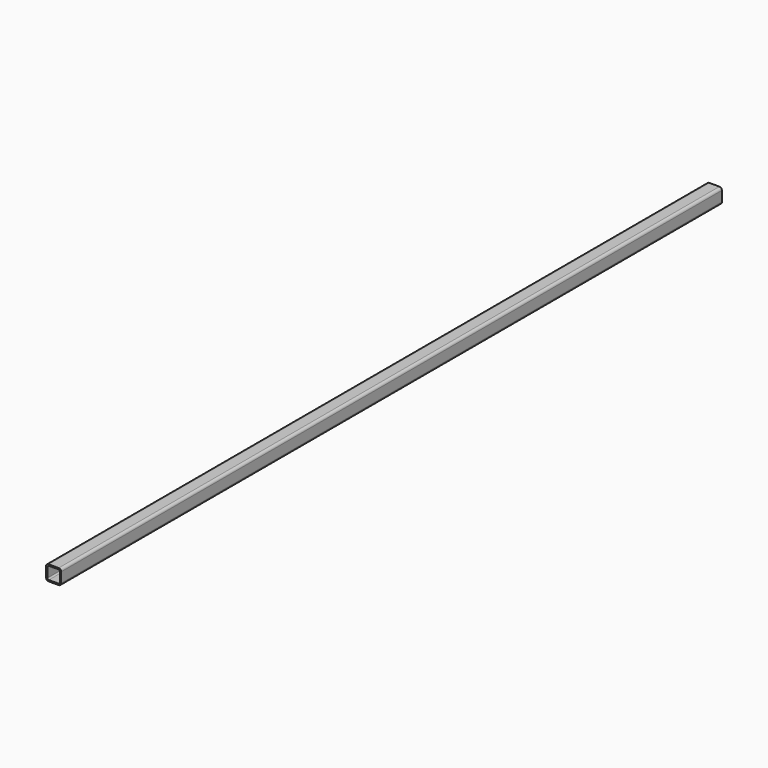
from build123d import *

# Parameters (mm, degrees)
F1_DEPTH = 1041.4


with BuildPart() as f1:
    # F0 (on Front) → F1 (new body)
    with BuildSketch(Plane.XZ):
        with BuildLine():
            ThreePointArc((0, 3.175), (0.929936, 0.929936), (3.175, 0))
            Line((3.175, 0), (15.875, 0))
            ThreePointArc((15.875, 0), (18.120064, 0.929936), (19.05, 3.175))
            Line((19.05, 3.175), (19.05, 15.875))
            ThreePointArc((19.05, 15.875), (18.120064, 18.120064), (15.875, 19.05))
            Line((15.875, 19.05), (3.175, 19.05))
            ThreePointArc((3.175, 19.05), (0.929936, 18.120064), (0, 15.875))
            Line((0, 15.875), (0, 3.175))
        make_face()
        with BuildLine():
            Line((17.399, 15.748), (17.399, 3.302))
            ThreePointArc((17.399, 3.302), (16.915433, 2.134567), (15.748, 1.651))
            Line((15.748, 1.651), (3.302, 1.651))
            ThreePointArc((3.302, 1.651), (2.134567, 2.134567), (1.651, 3.302))
            Line((1.651, 3.302), (1.651, 15.748))
            ThreePointArc((1.651, 15.748), (2.134567, 16.915433), (3.302, 17.399))
            Line((3.302, 17.399), (15.748, 17.399))
            ThreePointArc((15.748, 17.399), (16.915433, 16.915433), (17.399, 15.748))
        make_face(mode=Mode.SUBTRACT)
    extrude(amount=F1_DEPTH)


solid = f1.part
